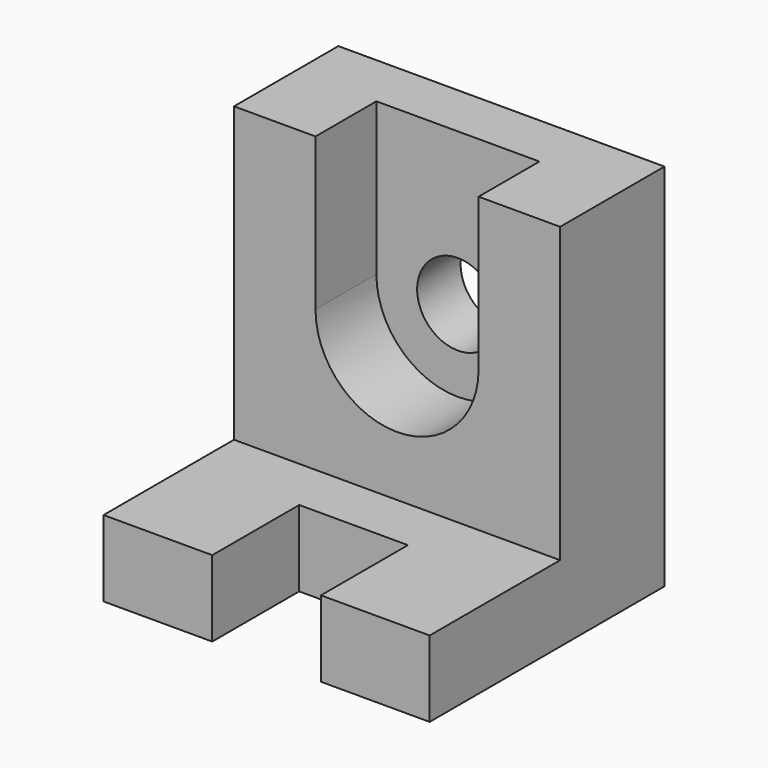
from build123d import *

# Parameters (mm, degrees)
F0_W      = 600
F0_H      = 540
F1_DEPTH  = 140
F2_W      = 200
F2_H      = 200
F3_DEPTH  = 140.001
F4_W      = 600
F4_H      = 240
F5_DEPTH  = 540
F6_W      = 300
F6_H      = 560
F7_DEPTH  = 140
F9_R      = 75
F10_DEPTH = 100.001
F8_R      = 150
F11_DEPTH = 140


with BuildPart() as f1:
    # F0 (on Top) → F1 (new body)
    with BuildSketch(Plane.XY):
        Rectangle(F0_W, F0_H)
    extrude(amount=F1_DEPTH)

    # F2 (on face) → F3 (cut, through all)
    with BuildSketch(Plane.XY.offset(140)):
        with Locations((0, -170)):
            Rectangle(F2_W, F2_H)
    extrude(amount=-F3_DEPTH, mode=Mode.SUBTRACT)

    # F4 (on face) → F5 (join)
    with BuildSketch(Plane.XY.offset(140)):
        with Locations((0, 150)):
            Rectangle(F4_W, F4_H)
    extrude(amount=F5_DEPTH)

    # F6 (on face) → F7 (cut)
    with BuildSketch(Plane.XZ.offset(-30)):
        with Locations((0, 680)):
            Rectangle(F6_W, F6_H)
    extrude(amount=-F7_DEPTH, mode=Mode.SUBTRACT)

    # F9 (on face) → F10 (cut, through all)
    with BuildSketch(Plane.XZ.offset(-170)):
        with Locations((0, 400)):
            Circle(F9_R)
    extrude(amount=-F10_DEPTH, mode=Mode.SUBTRACT)

    # F8 (on face) → F11 (cut)
    with BuildSketch(Plane.XZ.offset(-30)):
        with Locations((0, 400)):
            Circle(F8_R)
    extrude(amount=-F11_DEPTH, mode=Mode.SUBTRACT)


solid = f1.part
